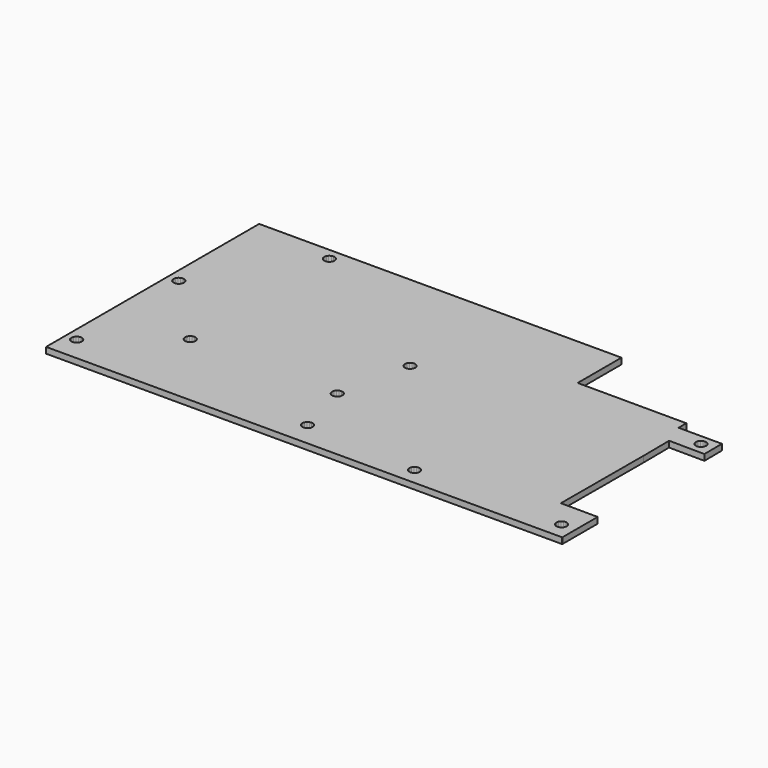
from build123d import *

# Parameters (mm, degrees)
PAD_DEPTH = 2


with BuildPart() as part:
    # Sketch → Pad (new body)
    with BuildSketch(Plane.XY):
        Polygon((157.033, 67.5042), (171.483, 67.5042), (171.533, 60.1542), (159.683, 60.2542), (159.783, 49.4542), (159.683, 15.2042), (171.983, 15.1542), (171.983, 0.454206), (171.883, 0.404206), (0.133118, 0.321209), (0.133118, 89.0212), (120.783, 89.0712), (120.783, 70.8212), (157.033, 70.7542), align=None)
        Polygon((77.4245, 27.1042), (77.291943, 26.437791), (76.914453, 25.872837), (76.349499, 25.495347), (75.68309, 25.36279), (75.016681, 25.495347), (74.451727, 25.872837), (74.074237, 26.437791), (73.94168, 27.1042), (74.078529, 27.782035), (74.451727, 28.335563), (75.005255, 28.708761), (75.68309, 28.84561), (76.349499, 28.713053), (76.914453, 28.335563), (77.291943, 27.770609), align=None, mode=Mode.SUBTRACT)
        Polygon((82.4745, 8.40421), (82.341943, 7.737801), (81.964453, 7.172847), (81.399499, 6.795357), (80.73309, 6.6628), (80.066681, 6.795357), (79.501727, 7.172847), (79.124237, 7.737801), (78.99168, 8.40421), (79.124237, 9.070619), (79.501727, 9.635573), (80.066681, 10.013063), (80.73309, 10.14562), (81.399499, 10.013063), (81.964453, 9.635573), (82.341943, 9.070619), align=None, mode=Mode.SUBTRACT)
        Polygon((28.4245, 27.1542), (28.291943, 26.487791), (27.914453, 25.922837), (27.349499, 25.545347), (26.68309, 25.41279), (26.005255, 25.549639), (25.451727, 25.922837), (25.078529, 26.476365), (24.94168, 27.1542), (25.078529, 27.832035), (25.451727, 28.385563), (26.005255, 28.758761), (26.68309, 28.89561), (27.349499, 28.763053), (27.914453, 28.385563), (28.291943, 27.820609), align=None, mode=Mode.SUBTRACT)
        Polygon((120.025, 6.05421), (119.892443, 5.387801), (119.514953, 4.822847), (118.949999, 4.445357), (118.28359, 4.3128), (117.617181, 4.445357), (117.052227, 4.822847), (116.674737, 5.387801), (116.54218, 6.05421), (116.674737, 6.720619), (117.052227, 7.285573), (117.617181, 7.663063), (118.28359, 7.79562), (118.949999, 7.663063), (119.514953, 7.285573), (119.892443, 6.720619), align=None, mode=Mode.SUBTRACT)
        Polygon((169.033, 6.00421), (168.900443, 5.337801), (168.522953, 4.772847), (167.957999, 4.395357), (167.29159, 4.2628), (166.613758, 4.399652), (166.060234, 4.772851), (165.687038, 5.326377), (165.55019, 6.00421), (165.687038, 6.682043), (166.060234, 7.235569), (166.613758, 7.608768), (167.29159, 7.74562), (167.957999, 7.613063), (168.522953, 7.235573), (168.900443, 6.670619), align=None, mode=Mode.SUBTRACT)
        Polygon((82.4745, 51.0956), (82.341943, 50.429191), (81.964453, 49.864237), (81.399499, 49.486747), (80.73309, 49.35419), (80.066681, 49.486747), (79.501727, 49.864237), (79.124237, 50.429191), (78.99168, 51.0956), (79.124237, 51.762009), (79.501727, 52.326963), (80.066681, 52.704453), (80.73309, 52.83701), (81.399499, 52.704453), (81.964453, 52.326963), (82.341943, 51.762009), align=None, mode=Mode.SUBTRACT)
        Polygon((169.033, 64.0542), (168.900443, 63.387791), (168.522953, 62.822837), (167.957999, 62.445347), (167.29159, 62.31279), (166.613758, 62.449642), (166.060234, 62.822841), (165.687038, 63.376367), (165.55019, 64.0542), (165.687038, 64.732033), (166.060234, 65.285559), (166.613758, 65.658758), (167.29159, 65.79561), (167.957999, 65.663053), (168.522953, 65.285563), (168.900443, 64.720609), align=None, mode=Mode.SUBTRACT)
        Polygon((28.4245, 85.1042), (28.28765, 84.42637), (27.914453, 83.872847), (27.36093, 83.49965), (26.6831, 83.3628), (26.00527, 83.49965), (25.451747, 83.872847), (25.07855, 84.42637), (24.9417, 85.1042), (25.07855, 85.78203), (25.451747, 86.335553), (26.00527, 86.70875), (26.6831, 86.8456), (27.36093, 86.70875), (27.914453, 86.335553), (28.28765, 85.78203), align=None, mode=Mode.SUBTRACT)
        Polygon((5.57453, 50.9456), (5.437678, 50.267768), (5.064479, 49.714244), (4.510953, 49.341048), (3.83312, 49.2042), (3.155287, 49.341048), (2.601761, 49.714244), (2.228562, 50.267768), (2.09171, 50.9456), (2.228562, 51.623432), (2.601761, 52.176956), (3.155287, 52.550152), (3.83312, 52.687), (4.510953, 52.550152), (5.064479, 52.176956), (5.437678, 51.623432), align=None, mode=Mode.SUBTRACT)
        Polygon((5.52453, 8.49562), (5.391973, 7.829211), (5.014483, 7.264257), (4.449529, 6.886767), (3.78312, 6.75421), (3.116711, 6.886767), (2.551757, 7.264257), (2.174267, 7.829211), (2.04171, 8.49562), (2.178567, 9.173446), (2.551768, 9.726963), (3.105292, 10.100154), (3.78312, 10.237), (4.460948, 10.100154), (5.014472, 9.726963), (5.387673, 9.173446), align=None, mode=Mode.SUBTRACT)
    extrude(amount=PAD_DEPTH)


solid = part.part
